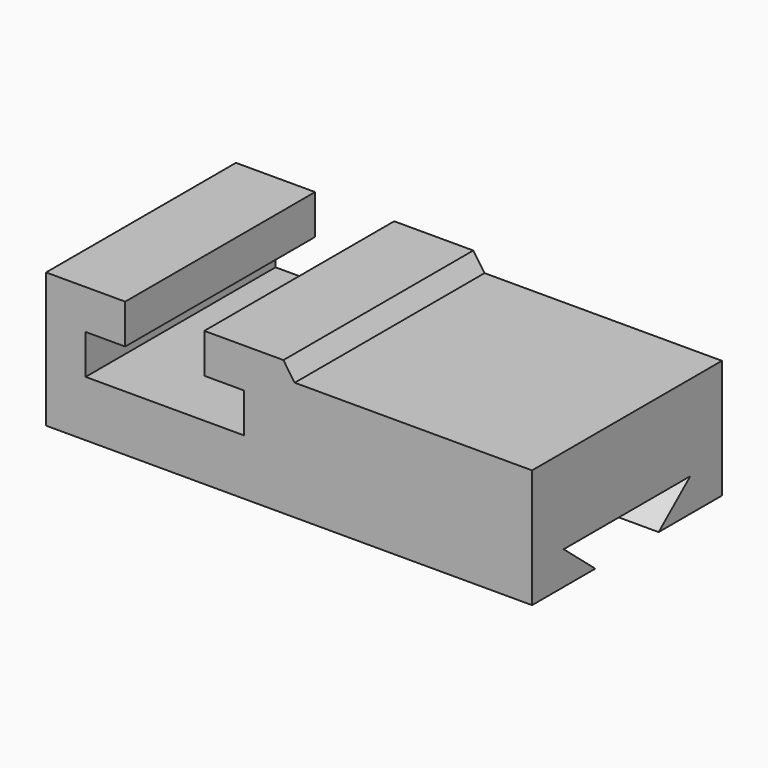
from build123d import *

# Parameters (mm, degrees)
F1_DEPTH = 76.2
F3_DEPTH = 156.01986


with BuildPart() as f1:
    # F0 (on Front) → F1 (new body)
    with BuildSketch(Plane.XZ):
        Polygon((-76.2, 0), (0, 0), (76.2, 0), (76.2, 38.1), (0, 38.1), (-3.61986, 43.317194), (-29.01986, 43.317194), (-29.01986, 30.617194), (-16.31986, 30.617194), (-16.31986, 17.917194), (-67.11986, 17.917194), (-67.11986, 30.617194), (-54.41986, 30.617194), (-54.41986, 43.317194), (-79.81986, 43.317194), (-79.81986, 0), align=None)
    extrude(amount=-F1_DEPTH)

    # F2 (on face) → F3 (cut, through all)
    with BuildSketch(Plane.YZ.offset(76.2)):
        Polygon((63.5, 10.648813), (12.7, 10.648813), (25.4, 0), (50.8, 0), align=None)
    extrude(amount=-F3_DEPTH, mode=Mode.SUBTRACT)


solid = f1.part
